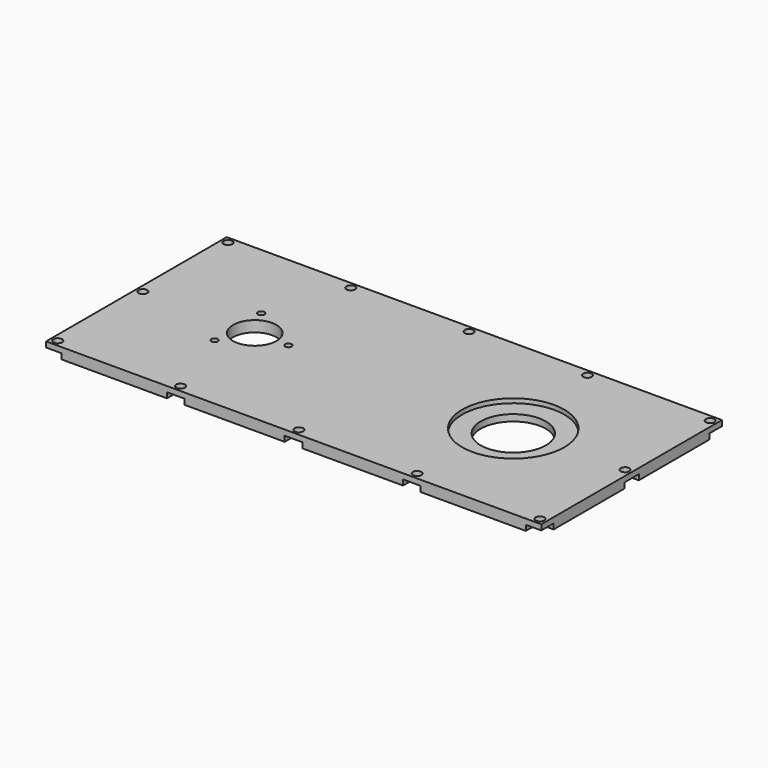
from build123d import *

# Parameters (mm, degrees)
F0_R     = 1.5
F0_R_2   = 13.65
F0_R_3   = 23.5
F0_R_4   = 15
F0_R_5   = 10
F1_DEPTH = 5
F2_DEPTH = 2
F0_R_6   = 2
F3_DEPTH = 2.5


with BuildPart() as f1:
    # F0 (on Top) → F1 (new body)
    with BuildSketch(Plane.XY):
        with BuildLine():
            Line((-58.3766478719, 52), (-106.8995, 52))
            Line((-106.8995, 52), (-106.8995, 49))
            ThreePointArc((-106.8995, 49), (-108.1076845276, 46.0831845276), (-111.0245, 44.875))
            Line((-111.0245, 44.875), (-114.0245, 44.875))
            Line((-114.0245, 44.875), (-114.0245, 4.125))
            Line((-114.0245, 4.125), (-111.0245, 4.125))
            ThreePointArc((-111.0245, 4.125), (-106.8995, 0), (-111.0245, -4.125))
            Line((-111.0245, -4.125), (-114.0245, -4.125))
            Line((-114.0245, -4.125), (-114.0245, -44.875))
            Line((-114.0245, -44.875), (-111.0245, -44.875))
            ThreePointArc((-111.0245, -44.875), (-108.1076845276, -46.0831845276), (-106.8995, -49))
            Line((-106.8995, -49), (-106.8995, -52))
            Line((-106.8995, -52), (-58.3766478719, -52))
            Line((-58.3766478719, -52), (-58.3766478719, -47.5903098648))
            ThreePointArc((-58.3766478719, -47.5903098648), (-53.7843001577, -44.9375624638), (-50.375, -49))
            Line((-50.375, -49), (-50.375, -52))
            Line((-50.375, -52), (-4.125, -52))
            Line((-4.125, -52), (-4.125, -49))
            ThreePointArc((-4.125, -49), (0, -44.875), (4.125, -49))
            Line((4.125, -49), (4.125, -52))
            Line((4.125, -52), (50.375, -52))
            Line((50.375, -52), (50.375, -49))
            ThreePointArc((50.375, -49), (53.7843001577, -44.9375624638), (58.3766478719, -47.5903098648))
            Line((58.3766478719, -47.5903098648), (58.3766478719, -52))
            Line((58.3766478719, -52), (106.8995, -52))
            Line((106.8995, -52), (106.8995, -49))
            ThreePointArc((106.8995, -49), (108.1076845276, -46.0831845276), (111.0245, -44.875))
            Line((111.0245, -44.875), (114.0245, -44.875))
            Line((114.0245, -44.875), (114.0245, -4.125))
            Line((114.0245, -4.125), (111.0245, -4.125))
            ThreePointArc((111.0245, -4.125), (106.8995, 0), (111.0245, 4.125))
            Line((111.0245, 4.125), (114.0245, 4.125))
            Line((114.0245, 4.125), (114.0245, 44.875))
            Line((114.0245, 44.875), (111.0245, 44.875))
            ThreePointArc((111.0245, 44.875), (108.1076845276, 46.0831845276), (106.8995, 49))
            Line((106.8995, 49), (106.8995, 52))
            Line((106.8995, 52), (58.3766478719, 52))
            Line((58.3766478719, 52), (58.3766478719, 47.5903098648))
            ThreePointArc((58.3766478719, 47.5903098648), (53.7843001577, 44.9375624638), (50.375, 49))
            Line((50.375, 49), (50.375, 52))
            Line((50.375, 52), (4.125, 52))
            Line((4.125, 52), (4.125, 49))
            ThreePointArc((4.125, 49), (0, 44.875), (-4.125, 49))
            Line((-4.125, 49), (-4.125, 52))
            Line((-4.125, 52), (-50.375, 52))
            Line((-50.375, 52), (-50.375, 49))
            ThreePointArc((-50.375, 49), (-53.7843001577, 44.9375624638), (-58.3766478719, 47.5903098648))
            Line((-58.3766478719, 47.5903098648), (-58.3766478719, 52))
        make_face()
        with Locations((-67.2745, -13.4233937587)):
            Circle(F0_R, mode=Mode.SUBTRACT)
        with Locations((-59.5245, 0)):
            Circle(F0_R_2, mode=Mode.SUBTRACT)
        with Locations((-67.2745, 13.4233937587)):
            Circle(F0_R, mode=Mode.SUBTRACT)
        with Locations((-44.0245, 0)):
            Circle(F0_R, mode=Mode.SUBTRACT)
        with Locations((59.5245, 0)):
            Circle(F0_R_3, mode=Mode.SUBTRACT)
        with BuildLine():
            Line((-58.3766478719, 52), (-106.8995, 52))
            Line((-106.8995, 52), (-106.8995, 49))
            ThreePointArc((-106.8995, 49), (-108.1076845276, 46.0831845276), (-111.0245, 44.875))
            Line((-111.0245, 44.875), (-114.0245, 44.875))
            Line((-114.0245, 44.875), (-114.0245, 4.125))
            Line((-114.0245, 4.125), (-111.0245, 4.125))
            ThreePointArc((-111.0245, 4.125), (-106.8995, 0), (-111.0245, -4.125))
            Line((-111.0245, -4.125), (-114.0245, -4.125))
            Line((-114.0245, -4.125), (-114.0245, -44.875))
            Line((-114.0245, -44.875), (-111.0245, -44.875))
            ThreePointArc((-111.0245, -44.875), (-108.1076845276, -46.0831845276), (-106.8995, -49))
            Line((-106.8995, -49), (-106.8995, -52))
            Line((-106.8995, -52), (-58.3766478719, -52))
            Line((-58.3766478719, -52), (-58.3766478719, -47.5903098648))
            ThreePointArc((-58.3766478719, -47.5903098648), (-53.7843001577, -44.9375624638), (-50.375, -49))
            Line((-50.375, -49), (-50.375, -52))
            Line((-50.375, -52), (-4.125, -52))
            Line((-4.125, -52), (-4.125, -49))
            ThreePointArc((-4.125, -49), (0, -44.875), (4.125, -49))
            Line((4.125, -49), (4.125, -52))
            Line((4.125, -52), (50.375, -52))
            Line((50.375, -52), (50.375, -49))
            ThreePointArc((50.375, -49), (53.7843001577, -44.9375624638), (58.3766478719, -47.5903098648))
            Line((58.3766478719, -47.5903098648), (58.3766478719, -52))
            Line((58.3766478719, -52), (106.8995, -52))
            Line((106.8995, -52), (106.8995, -49))
            ThreePointArc((106.8995, -49), (108.1076845276, -46.0831845276), (111.0245, -44.875))
            Line((111.0245, -44.875), (114.0245, -44.875))
            Line((114.0245, -44.875), (114.0245, -4.125))
            Line((114.0245, -4.125), (111.0245, -4.125))
            ThreePointArc((111.0245, -4.125), (106.8995, 0), (111.0245, 4.125))
            Line((111.0245, 4.125), (114.0245, 4.125))
            Line((114.0245, 4.125), (114.0245, 44.875))
            Line((114.0245, 44.875), (111.0245, 44.875))
            ThreePointArc((111.0245, 44.875), (108.1076845276, 46.0831845276), (106.8995, 49))
            Line((106.8995, 49), (106.8995, 52))
            Line((106.8995, 52), (58.3766478719, 52))
            Line((58.3766478719, 52), (58.3766478719, 47.5903098648))
            ThreePointArc((58.3766478719, 47.5903098648), (53.7843001577, 44.9375624638), (50.375, 49))
            Line((50.375, 49), (50.375, 52))
            Line((50.375, 52), (4.125, 52))
            Line((4.125, 52), (4.125, 49))
            ThreePointArc((4.125, 49), (0, 44.875), (-4.125, 49))
            Line((-4.125, 49), (-4.125, 52))
            Line((-4.125, 52), (-50.375, 52))
            Line((-50.375, 52), (-50.375, 49))
            ThreePointArc((-50.375, 49), (-53.7843001577, 44.9375624638), (-58.3766478719, 47.5903098648))
            Line((-58.3766478719, 47.5903098648), (-58.3766478719, 52))
        make_face()
        with Locations((-67.2745, -13.4233937587)):
            Circle(F0_R, mode=Mode.SUBTRACT)
        with Locations((-59.5245, 0)):
            Circle(F0_R_2, mode=Mode.SUBTRACT)
        with Locations((-67.2745, 13.4233937587)):
            Circle(F0_R, mode=Mode.SUBTRACT)
        with Locations((-44.0245, 0)):
            Circle(F0_R, mode=Mode.SUBTRACT)
        with Locations((59.5245, 0)):
            Circle(F0_R_3, mode=Mode.SUBTRACT)
        with BuildLine():
            Line((-58.3766478719, 52), (-106.8995, 52))
            Line((-106.8995, 52), (-106.8995, 49))
            ThreePointArc((-106.8995, 49), (-108.1076845276, 46.0831845276), (-111.0245, 44.875))
            Line((-111.0245, 44.875), (-114.0245, 44.875))
            Line((-114.0245, 44.875), (-114.0245, 4.125))
            Line((-114.0245, 4.125), (-111.0245, 4.125))
            ThreePointArc((-111.0245, 4.125), (-106.8995, 0), (-111.0245, -4.125))
            Line((-111.0245, -4.125), (-114.0245, -4.125))
            Line((-114.0245, -4.125), (-114.0245, -44.875))
            Line((-114.0245, -44.875), (-111.0245, -44.875))
            ThreePointArc((-111.0245, -44.875), (-108.1076845276, -46.0831845276), (-106.8995, -49))
            Line((-106.8995, -49), (-106.8995, -52))
            Line((-106.8995, -52), (-58.3766478719, -52))
            Line((-58.3766478719, -52), (-58.3766478719, -47.5903098648))
            ThreePointArc((-58.3766478719, -47.5903098648), (-53.7843001577, -44.9375624638), (-50.375, -49))
            Line((-50.375, -49), (-50.375, -52))
            Line((-50.375, -52), (-4.125, -52))
            Line((-4.125, -52), (-4.125, -49))
            ThreePointArc((-4.125, -49), (0, -44.875), (4.125, -49))
            Line((4.125, -49), (4.125, -52))
            Line((4.125, -52), (50.375, -52))
            Line((50.375, -52), (50.375, -49))
            ThreePointArc((50.375, -49), (53.7843001577, -44.9375624638), (58.3766478719, -47.5903098648))
            Line((58.3766478719, -47.5903098648), (58.3766478719, -52))
            Line((58.3766478719, -52), (106.8995, -52))
            Line((106.8995, -52), (106.8995, -49))
            ThreePointArc((106.8995, -49), (108.1076845276, -46.0831845276), (111.0245, -44.875))
            Line((111.0245, -44.875), (114.0245, -44.875))
            Line((114.0245, -44.875), (114.0245, -4.125))
            Line((114.0245, -4.125), (111.0245, -4.125))
            ThreePointArc((111.0245, -4.125), (106.8995, 0), (111.0245, 4.125))
            Line((111.0245, 4.125), (114.0245, 4.125))
            Line((114.0245, 4.125), (114.0245, 44.875))
            Line((114.0245, 44.875), (111.0245, 44.875))
            ThreePointArc((111.0245, 44.875), (108.1076845276, 46.0831845276), (106.8995, 49))
            Line((106.8995, 49), (106.8995, 52))
            Line((106.8995, 52), (58.3766478719, 52))
            Line((58.3766478719, 52), (58.3766478719, 47.5903098648))
            ThreePointArc((58.3766478719, 47.5903098648), (53.7843001577, 44.9375624638), (50.375, 49))
            Line((50.375, 49), (50.375, 52))
            Line((50.375, 52), (4.125, 52))
            Line((4.125, 52), (4.125, 49))
            ThreePointArc((4.125, 49), (0, 44.875), (-4.125, 49))
            Line((-4.125, 49), (-4.125, 52))
            Line((-4.125, 52), (-50.375, 52))
            Line((-50.375, 52), (-50.375, 49))
            ThreePointArc((-50.375, 49), (-53.7843001577, 44.9375624638), (-58.3766478719, 47.5903098648))
            Line((-58.3766478719, 47.5903098648), (-58.3766478719, 52))
        make_face()
        with Locations((-67.2745, -13.4233937587)):
            Circle(F0_R, mode=Mode.SUBTRACT)
        with Locations((-59.5245, 0)):
            Circle(F0_R_2, mode=Mode.SUBTRACT)
        with Locations((-67.2745, 13.4233937587)):
            Circle(F0_R, mode=Mode.SUBTRACT)
        with Locations((-44.0245, 0)):
            Circle(F0_R, mode=Mode.SUBTRACT)
        with Locations((59.5245, 0)):
            Circle(F0_R_3, mode=Mode.SUBTRACT)
        with Locations((59.5245, 0)):
            Circle(F0_R_3)
        with Locations((59.5245, 0)):
            Circle(F0_R_4, mode=Mode.SUBTRACT)
        with Locations((-59.5245, 0)):
            Circle(F0_R_2)
        with Locations((-59.5245, 0)):
            Circle(F0_R_5, mode=Mode.SUBTRACT)
    extrude(amount=-F1_DEPTH)

    # F0 (on Top) → F2 (cut)
    with BuildSketch(Plane.XY):
        with Locations((59.5245, 0)):
            Circle(F0_R_3)
        with Locations((59.5245, 0)):
            Circle(F0_R_4, mode=Mode.SUBTRACT)
    extrude(amount=-F2_DEPTH, mode=Mode.SUBTRACT)

    # F0 (on Top) → F3 (join)
    with BuildSketch(Plane.XY):
        with BuildLine():
            Line((-106.8995, 52), (-114.0245, 52))
            Line((-114.0245, 52), (-114.0245, 44.875))
            Line((-114.0245, 44.875), (-111.0245, 44.875))
            ThreePointArc((-111.0245, 44.875), (-108.1076845276, 46.0831845276), (-106.8995, 49))
            Line((-106.8995, 49), (-106.8995, 52))
        make_face()
        with Locations((-111.0245, 49)):
            Circle(F0_R_6, mode=Mode.SUBTRACT)
        with BuildLine():
            Line((-111.0245, 4.125), (-114.0245, 4.125))
            Line((-114.0245, 4.125), (-114.0245, -4.125))
            Line((-114.0245, -4.125), (-111.0245, -4.125))
            ThreePointArc((-111.0245, -4.125), (-106.8995, 0), (-111.0245, 4.125))
        make_face()
        with Locations((-111.0245, 0)):
            Circle(F0_R_6, mode=Mode.SUBTRACT)
        with BuildLine():
            Line((-111.0245, -44.875), (-114.0245, -44.875))
            Line((-114.0245, -44.875), (-114.0245, -52))
            Line((-114.0245, -52), (-106.8995, -52))
            Line((-106.8995, -52), (-106.8995, -49))
            ThreePointArc((-106.8995, -49), (-108.1076845276, -46.0831845276), (-111.0245, -44.875))
        make_face()
        with Locations((-111.0245, -49)):
            Circle(F0_R_6, mode=Mode.SUBTRACT)
        with BuildLine():
            Line((-58.3766478719, -47.5903098648), (-58.3766478719, -52))
            Line((-58.3766478719, -52), (-50.375, -52))
            Line((-50.375, -52), (-50.375, -49))
            ThreePointArc((-50.375, -49), (-53.7843001577, -44.9375624638), (-58.3766478719, -47.5903098648))
        make_face()
        with Locations((-54.5, -49)):
            Circle(F0_R_6, mode=Mode.SUBTRACT)
        with BuildLine():
            Line((-4.125, -49), (-4.125, -52))
            Line((-4.125, -52), (4.125, -52))
            Line((4.125, -52), (4.125, -49))
            ThreePointArc((4.125, -49), (0, -44.875), (-4.125, -49))
        make_face()
        with Locations((0, -49)):
            Circle(F0_R_6, mode=Mode.SUBTRACT)
        with BuildLine():
            Line((50.375, -49), (50.375, -52))
            Line((50.375, -52), (58.3766478719, -52))
            Line((58.3766478719, -52), (58.3766478719, -47.5903098648))
            ThreePointArc((58.3766478719, -47.5903098648), (53.7843001577, -44.9375624638), (50.375, -49))
        make_face()
        with Locations((54.5, -49)):
            Circle(F0_R_6, mode=Mode.SUBTRACT)
        with BuildLine():
            Line((114.0245, -52), (114.0245, -44.875))
            Line((114.0245, -44.875), (111.0245, -44.875))
            ThreePointArc((111.0245, -44.875), (108.1076845276, -46.0831845276), (106.8995, -49))
            Line((106.8995, -49), (106.8995, -52))
            Line((106.8995, -52), (114.0245, -52))
        make_face()
        with Locations((111.0245, -49)):
            Circle(F0_R_6, mode=Mode.SUBTRACT)
        with BuildLine():
            Line((114.0245, -4.125), (114.0245, 4.125))
            Line((114.0245, 4.125), (111.0245, 4.125))
            ThreePointArc((111.0245, 4.125), (106.8995, 0), (111.0245, -4.125))
            Line((111.0245, -4.125), (114.0245, -4.125))
        make_face()
        with Locations((111.0245, 0)):
            Circle(F0_R_6, mode=Mode.SUBTRACT)
        with BuildLine():
            Line((114.0245, 52), (106.8995, 52))
            Line((106.8995, 52), (106.8995, 49))
            ThreePointArc((106.8995, 49), (108.1076845276, 46.0831845276), (111.0245, 44.875))
            Line((111.0245, 44.875), (114.0245, 44.875))
            Line((114.0245, 44.875), (114.0245, 52))
        make_face()
        with Locations((111.0245, 49)):
            Circle(F0_R_6, mode=Mode.SUBTRACT)
        with BuildLine():
            Line((58.3766478719, 52), (50.375, 52))
            Line((50.375, 52), (50.375, 49))
            ThreePointArc((50.375, 49), (53.7843001577, 44.9375624638), (58.3766478719, 47.5903098648))
            Line((58.3766478719, 47.5903098648), (58.3766478719, 52))
        make_face()
        with Locations((54.5, 49)):
            Circle(F0_R_6, mode=Mode.SUBTRACT)
        with BuildLine():
            Line((4.125, 52), (-4.125, 52))
            Line((-4.125, 52), (-4.125, 49))
            ThreePointArc((-4.125, 49), (0, 44.875), (4.125, 49))
            Line((4.125, 49), (4.125, 52))
        make_face()
        with Locations((0, 49)):
            Circle(F0_R_6, mode=Mode.SUBTRACT)
        with BuildLine():
            Line((-50.375, 52), (-58.3766478719, 52))
            Line((-58.3766478719, 52), (-58.3766478719, 47.5903098648))
            ThreePointArc((-58.3766478719, 47.5903098648), (-53.7843001577, 44.9375624638), (-50.375, 49))
            Line((-50.375, 49), (-50.375, 52))
        make_face()
        with Locations((-54.5, 49)):
            Circle(F0_R_6, mode=Mode.SUBTRACT)
        with BuildLine():
            Line((58.3766478719, 52), (50.375, 52))
            Line((50.375, 52), (50.375, 49))
            ThreePointArc((50.375, 49), (53.7843001577, 44.9375624638), (58.3766478719, 47.5903098648))
            Line((58.3766478719, 47.5903098648), (58.3766478719, 52))
        make_face()
        with Locations((54.5, 49)):
            Circle(F0_R_6, mode=Mode.SUBTRACT)
    extrude(amount=-F3_DEPTH)


solid = f1.part
